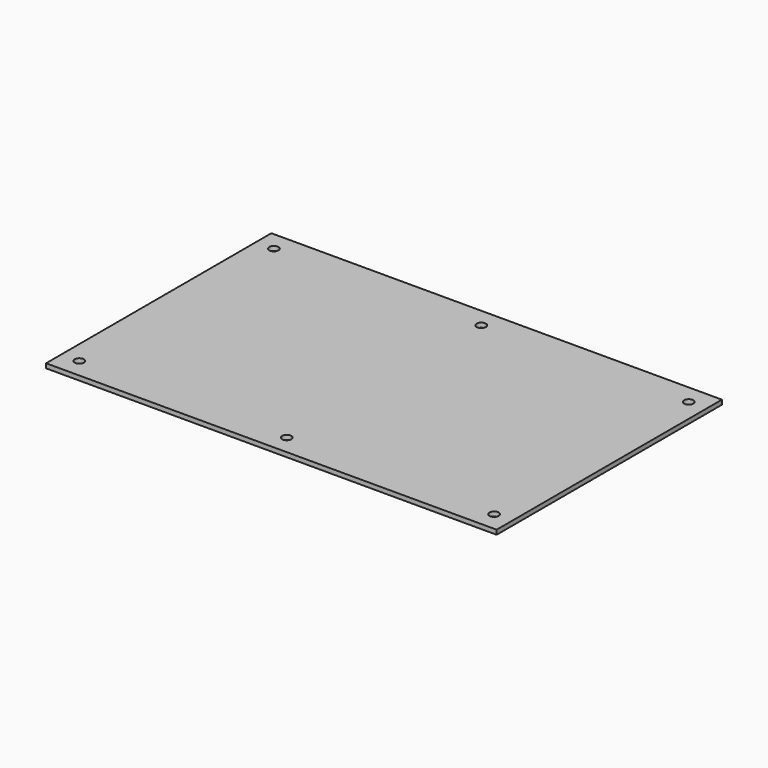
from build123d import *

# Parameters (mm, degrees)
F0_W     = 160
F0_H     = 100
F1_DEPTH = 1.6
F3_D     = 3.3


with BuildPart() as f1:
    # F0 (on Top) → F1 (new body)
    with BuildSketch(Plane.XY):
        with Locations((80, 50)):
            Rectangle(F0_W, F0_H)
    extrude(amount=F1_DEPTH)

    # F3 (through all)
    with Locations(Plane.XY.offset(1.6)):
        with Locations((6.34, 93.18), (6.34, 6.82), (80, 6.82), (80, 93.18), (153.66, 93.18), (153.66, 6.82)):
            Hole(F3_D / 2)


solid = f1.part
